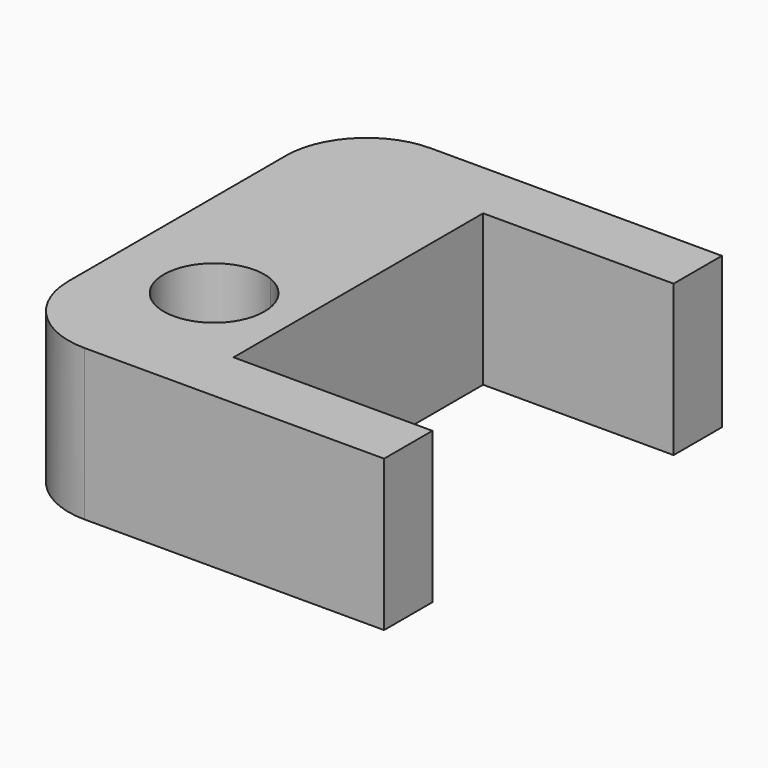
from build123d import *

# Parameters (mm, degrees)
F1_DEPTH = 15


with BuildPart() as f1:
    # F0 (on Top) → F1 (new body)
    with BuildSketch(Plane.XY):
        with BuildLine():
            Line((0, 18.110271), (0, 43))
            Line((0, 43), (-4, 43))
            ThreePointArc((-4, 43), (-9.656854, 40.656854), (-12, 35))
            Line((-12, 35), (-12, 8))
            ThreePointArc((-12, 8), (-9.656854, 2.343146), (-4, 0))
            Line((-4, 0), (0, 0))
            Line((0, 0), (0, 8.887977))
            ThreePointArc((0, 8.887977), (-6.933217, 13.499124), (0, 18.110271))
        make_face()
        with BuildLine():
            Line((6, 37), (24.931029, 37))
            Line((24.931029, 37), (24.931029, 43))
            Line((24.931029, 43), (0, 43))
            Line((0, 43), (0, 18.110271))
            ThreePointArc((0, 18.110271), (2.23008, 16.268051), (3.066783, 13.499124))
            ThreePointArc((3.066783, 13.499124), (2.23008, 10.730197), (0, 8.887977))
            Line((0, 8.887977), (0, 0))
            Line((0, 0), (25.758616, 0))
            Line((25.758616, 0), (25.758616, 6))
            Line((25.758616, 6), (6, 6))
            Line((6, 6), (6, 37))
        make_face()
    extrude(amount=F1_DEPTH)


solid = f1.part
